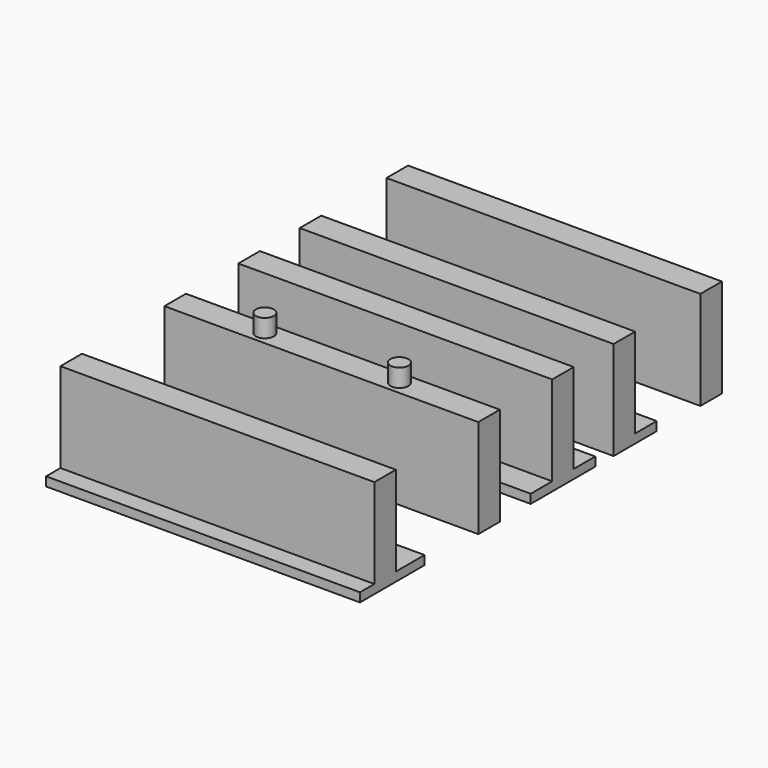
from build123d import *

# Parameters (mm, degrees)
F0_W     = 88.9
F0_H     = 7.62
F1_DEPTH = 25.4
F2_W     = 88.9
F2_H     = 15.24
F2_H_2   = 22.86
F3_DEPTH = 2.54
F5_W     = 88.9
F5_H     = 7.62
F6_DEPTH = 27.94
F7_R     = 2.54
F8_DEPTH = 30.48


with BuildPart() as f1:
    # F0 (on Top) → F1 (new body)
    with BuildSketch(Plane.XY):
        with Locations((19.05, 19.05)):
            Rectangle(F0_W, F0_H)
        with Locations((19.05, -2.68392)):
            Rectangle(F0_W, F0_H)
        with Locations((19.05, -65.662693)):
            Rectangle(F0_W, F0_H)
    extrude(amount=F1_DEPTH)

    # F2 (on Top) → F3 (join)
    with BuildSketch(Plane.XY):
        with Locations((19.05, 22.86)):
            Rectangle(F2_W, F2_H)
        with Locations((19.05, -2.68392)):
            Rectangle(F2_W, F2_H_2)
        with Locations((19.05, -63.122693)):
            Rectangle(F2_W, F2_H_2)
    extrude(amount=-F3_DEPTH)


with BuildPart() as f6:
    # F5 (on offset) → F6 (new body)
    with BuildSketch(Plane.XY.offset(-2.54)):
        with Locations((19.05, -28.84625)):
            Rectangle(F5_W, F5_H)
        with Locations((19.05, 49.776015)):
            Rectangle(F5_W, F5_H)
    extrude(amount=F6_DEPTH)

    # F7 (on Top) → F8 (join)
    with BuildSketch(Plane.XY):
        with Locations((38.1, -28.84625)):
            Circle(F7_R)
        with Locations((0, -28.84625)):
            Circle(F7_R)
    extrude(amount=F8_DEPTH)


solid = Compound([f1.part, f6.part])
